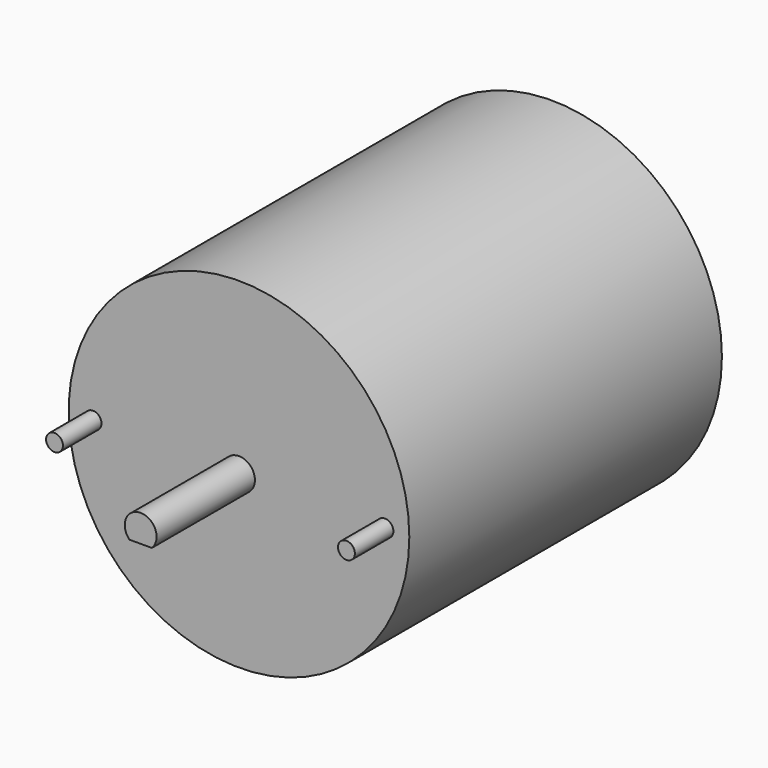
from build123d import *

# Parameters (mm, degrees)
F0_R     = 42.2402
F1_DEPTH = 96.901
F2_R     = 3.9497
F3_DEPTH = 30.48
F4_R     = 2.0955
F5_DEPTH = 11.938
F7_DEPTH = 16.51


with BuildPart() as f1:
    # F0 (on Front) → F1 (new body)
    with BuildSketch(Plane.XZ):
        Circle(F0_R)
    extrude(amount=F1_DEPTH)

    # F2 (on face) → F3 (join)
    with BuildSketch(Plane.XZ.offset(96.901)):
        Circle(F2_R)
    extrude(amount=F3_DEPTH)

    # F4 (on face) → F5 (join)
    with BuildSketch(Plane.XZ.offset(96.901)):
        with Locations((-36.195, 0)):
            Circle(F4_R)
        with Locations((36.195, 0)):
            Circle(F4_R)
    extrude(amount=F5_DEPTH)

    # F6 (on face) → F7 (cut)
    with BuildSketch(Plane.XZ.offset(127.381)):
        with BuildLine():
            Line((-2.7789503774, -2.8067), (-4.5821680687, -2.8067))
            Line((-4.5821680687, -2.8067), (-4.5821680687, -6.1287720943))
            Line((-4.5821680687, -6.1287720943), (4.5821680687, -6.1287720943))
            Line((4.5821680687, -6.1287720943), (4.5821680687, -2.8067))
            Line((4.5821680687, -2.8067), (2.7789503774, -2.8067))
            ThreePointArc((2.7789503774, -2.8067), (0, -3.9497), (-2.7789503774, -2.8067))
        make_face()
        with BuildLine():
            Line((2.7789503774, -2.8067), (-2.7789503774, -2.8067))
            ThreePointArc((-2.7789503774, -2.8067), (0, -3.9497), (2.7789503774, -2.8067))
        make_face()
    extrude(amount=-F7_DEPTH, mode=Mode.SUBTRACT)


solid = f1.part
